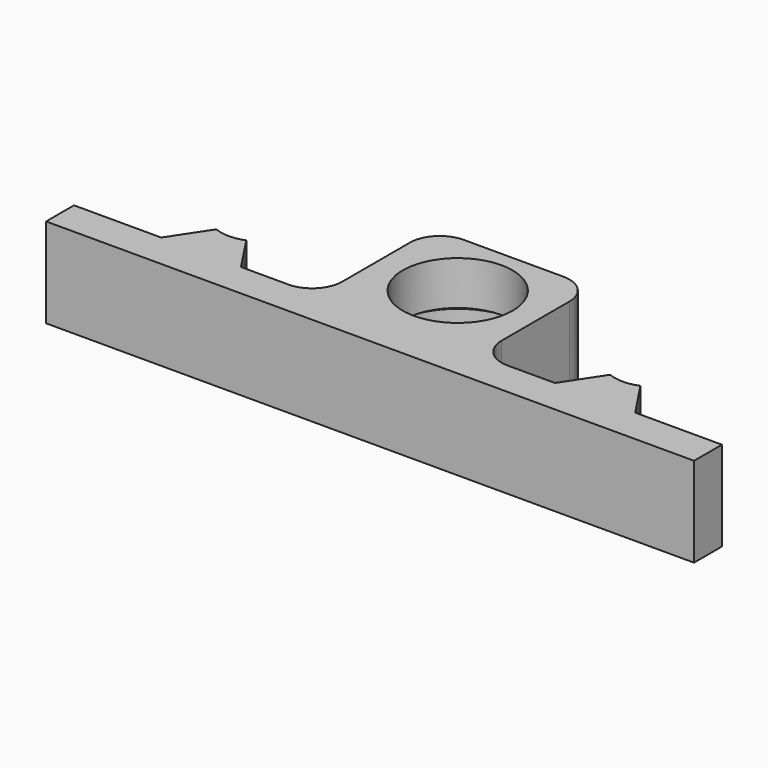
from build123d import *

# Parameters (mm, degrees)
F0_W     = 32
F0_H     = 7
F0_H_2   = 29
F0_R     = 13
F0_R_2   = 11
F1_DEPTH = 18
F2_D     = 26
F2_DEPTH = 8
F2_TIP   = 7.8111880474
F3_R     = 6


with BuildPart() as f1:
    # F0 (on Top) → F1 (new body)
    with BuildSketch(Plane.XY):
        with Locations((-44.5692668381, 19.1334804479)):
            Rectangle(F0_W, F0_H)
        with Locations((-44.5692668381, 37.1334804479)):
            Rectangle(F0_W, F0_H_2)
        with Locations((-44.5691263461, 37.6129510462)):
            Circle(F0_R, mode=Mode.SUBTRACT)
        Polygon((-92.0692668381, 22.6334804479), (-109.5692668381, 22.6334804479), (-109.5692668381, 15.6334804479), (-60.5692668381, 15.6334804479), (-60.5692668381, 22.6334804479), (-76.0692668381, 22.6334804479), (-81.0692668381, 22.6334804479), (-87.0692668381, 22.6334804479), align=None)
        Polygon((-13.0689858541, 22.6334804479), (-28.5692668381, 22.6334804479), (-28.5692668381, 15.6334804479), (20.4307331619, 15.6334804479), (20.4307331619, 22.6334804479), (3.0333849776, 22.6334804479), (-1.9666150224, 22.6334804479), (-8.0689858541, 22.6334804479), align=None)
        with Locations((-44.5691263461, 37.6129510462)):
            Circle(F0_R)
        with Locations((-44.5691263461, 37.6129510462)):
            Circle(F0_R_2, mode=Mode.SUBTRACT)
        Polygon((-81.0692668381, 22.6334804479), (-76.0692668381, 22.6334804479), (-81.0692668381, 30.2172819608), align=None)
        with BuildLine():
            Line((-87.0692668381, 30.2172819608), (-87.0692668381, 22.6334804479))
            Line((-87.0692668381, 22.6334804479), (-81.0692668381, 22.6334804479))
            Line((-81.0692668381, 22.6334804479), (-81.0692668381, 30.2172819608))
            ThreePointArc((-81.0692668381, 30.2172819608), (-84.0692668381, 29.6334804479), (-87.0692668381, 30.2172819608))
        make_face()
        Polygon((-87.0692668381, 30.2172819608), (-92.0692668381, 22.6334804479), (-87.0692668381, 22.6334804479), align=None)
        Polygon((-8.0689858541, 30.2171683033), (-13.0689858541, 22.6334804479), (-8.0689858541, 22.6334804479), align=None)
        with BuildLine():
            Line((-8.0689858541, 30.2171683033), (-8.0689858541, 22.6334804479))
            Line((-8.0689858541, 22.6334804479), (-1.9666150224, 22.6334804479))
            Line((-1.9666150224, 22.6334804479), (-2.018655908, 30.2379566021))
            ThreePointArc((-2.018655908, 30.2379566021), (-5.0417798399, 29.633527669), (-8.0689858541, 30.2171683033))
        make_face()
        Polygon((-1.9666150224, 22.6334804479), (3.0333849776, 22.6334804479), (-2.018655908, 30.2379566021), align=None)
    extrude(amount=F1_DEPTH)

    # F2
    with Locations(Plane(origin=(0, 0, 0), x_dir=(1, 0, 0), z_dir=(0, 0, -1))):
        with Locations((-44.5691263461, -37.6129510462)):
            Hole(F2_D / 2, depth=F2_DEPTH)
            with Locations((0, 0, -(F2_DEPTH + F2_TIP / 2))):  # 118° drill point
                Cone(0, F2_D / 2, F2_TIP, mode=Mode.SUBTRACT)

    # F3
    f3_edges = [f1.edges().sort_by_distance(p)[0] for p in [
        (-60.569267, 22.63348, 9),
        (-28.569267, 22.63348, 9),
        (-60.569267, 51.63348, 9),
        (-28.569267, 51.63348, 9),
    ]]
    fillet(f3_edges, radius=F3_R)


solid = f1.part
